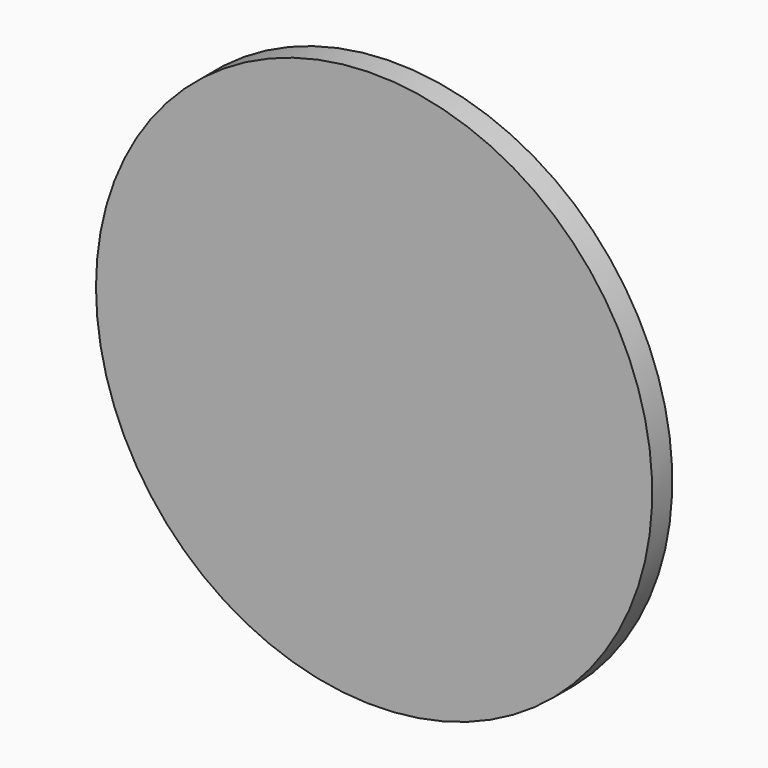
from build123d import *

# Parameters (mm, degrees)
F0_W = 3.1060343608
F0_H = 4.1245449741


with BuildPart() as f1:
    # F0 (on Top) → F1 (revolve)
    with BuildSketch(Plane.XY):
        Polygon((-75.8681371808, -68.3808345637), (-75.8681371808, -75.2311423421), (0, -75.2311423421), (0, -68.3808345637), (-65.233618021, -68.3808345637), align=None)
        Polygon((-65.233618021, -68.3808345637), (0, -68.3808345637), (0, -61.2551711489), (-56.3006289303, -61.2551711489), (-65.233618021, -61.2551711489), align=None)
        Polygon((-56.3006289303, -61.2551711489), (0, -61.2551711489), (0, -53.0980758273), (-46.5168766677, -53.0980758273), (-56.3006289303, -53.0980758273), align=None)
        Polygon((-46.5168766677, -53.0980758273), (0, -53.0980758273), (0, -46.3767246723), (-40.0174387131, -46.3767246723), (-46.5168766677, -46.3767246723), align=None)
        Polygon((-40.0174387131, -46.3767246723), (0, -46.3767246723), (0, -38.8292317048), (-25.3592459775, -38.8292317048), (-40.0174387131, -38.8292317048), align=None)
        Polygon((-25.3592459775, -38.8292317048), (0, -38.8292317048), (0, -31.9099235999), (-16.3148548454, -31.9099235999), (-25.3592459775, -31.9099235999), align=None)
        Polygon((-16.3148548454, -31.9099235999), (0, -31.9099235999), (0, -23.8791607417), (-8.1574274227, -23.8791607417), (-16.3148548454, -23.8791607417), align=None)
        Polygon((-8.1574274227, -23.8791607417), (0, -23.8791607417), (0, -15.3151774863), (-6.2120687217, -15.3151774863), (-8.1574274227, -15.3151774863), align=None)
        with Locations((-1.5530171804, -7.6774568423)):
            Rectangle(F0_W, F0_H)
        Polygon((-6.2120687217, -15.3151774863), (0, -15.3151774863), (0, -9.7397293293), (-3.1060343608, -9.7397293293), (-6.2120687217, -9.7397293293), align=None)
    revolve(axis=Axis((0, -71.8059884529, 0), (0, 1, 0)))


solid = f1.part
